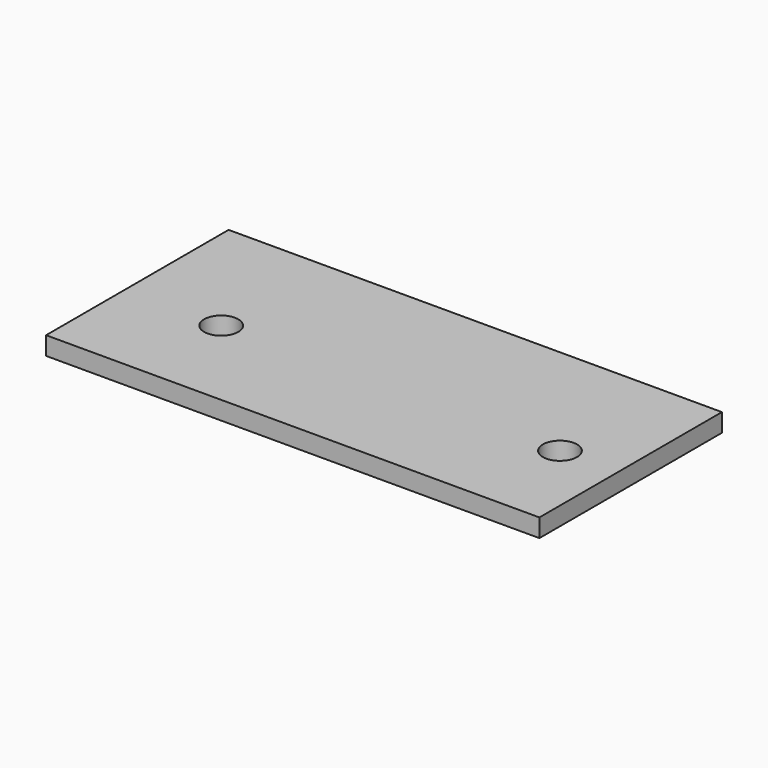
from build123d import *

# Parameters (mm, degrees)
SKETCH004_R      = 1.5
EXTRUDE004_DEPTH = 2
BOX002_W         = 20
BOX002_H         = 43.25
BOX002_DEPTH     = 1.6


with BuildPart() as holesextrude:
    # Sketch004 (on Face6 of Box002) → Extrude004 (new body)
    with BuildSketch(Plane(origin=(11, 0, 1.6), x_dir=(0, -1, 0), z_dir=(0, 0, 1))):
        with Locations((11.4, 38.171532)):
            Circle(SKETCH004_R)
        with Locations((11.4, 8.471532)):
            Circle(SKETCH004_R)
    extrude(amount=-EXTRUDE004_DEPTH)


with BuildPart() as board002:
    # Box002 → Box002 (new body)
    with BuildSketch(Plane(origin=(11, 0, 0), x_dir=(0, -1, 0), z_dir=(0, 0, 1))):
        with Locations((10, 21.625)):
            Rectangle(BOX002_W, BOX002_H)
    extrude(amount=BOX002_DEPTH)

    # Cut001: cut HolesExtrude
    add(holesextrude.part, mode=Mode.SUBTRACT)


solid = board002.part
